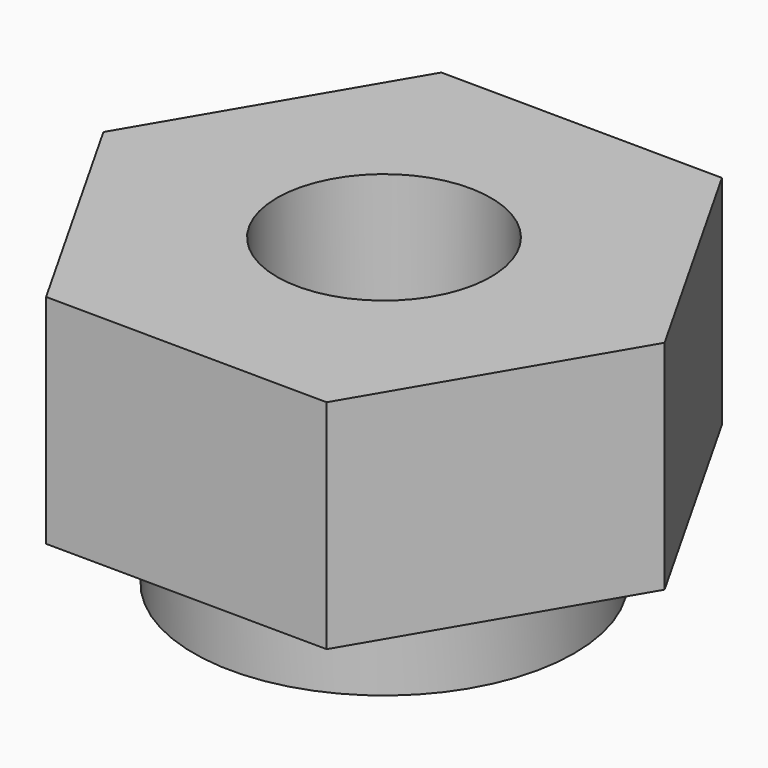
from build123d import *

# Parameters (mm, degrees)
F1_DEPTH = 5.08
F2_R     = 4.445
F3_DEPTH = 2.032
F5_D     = 5


with BuildPart() as f1:
    # F0 (on Top) → F1 (new body)
    with BuildSketch(Plane.XY):
        Polygon((3.3457980823, 5.6883025765), (-3.2533154946, 5.7416974235), (-6.5991135768, 0.0533948469), (-3.3457980823, -5.6883025765), (3.2533154946, -5.7416974235), (6.5991135768, -0.0533948469), align=None)
    extrude(amount=F1_DEPTH)

    # F2 (on face) → F3 (join)
    with BuildSketch(Plane(origin=(0, 0, 0), x_dir=(1, 0, 0), z_dir=(0, 0, -1))):
        Circle(F2_R)
    extrude(amount=F3_DEPTH)

    # F5 (through all)
    with Locations(Plane(origin=(0, 0, -2.032), x_dir=(1, 0, 0), z_dir=(0, 0, -1))):
        with Locations((0, 0)):
            Hole(F5_D / 2)


solid = f1.part
